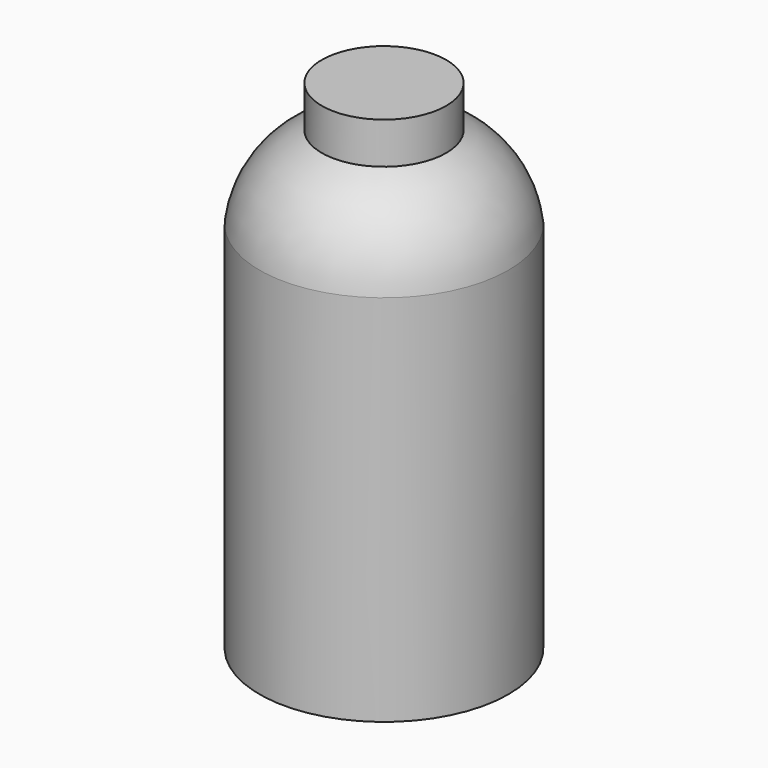
from build123d import *


with BuildPart() as f1:
    # F0 (on Front) → F1 (revolve)
    with BuildSketch(Plane.XZ):
        with BuildLine():
            Line((0, 304.8), (0, 0))
            Line((0, 0), (76.2, 0))
            Line((76.2, 0), (76.2, 228.6))
            ThreePointArc((76.2, 228.6), (64.005285, 259.141464), (38.1, 279.4))
            Line((38.1, 279.4), (38.1, 304.8))
            Line((38.1, 304.8), (0, 304.8))
        make_face()
    revolve(axis=Axis((0, 0, 152.4), (0, 0, 1)))


solid = f1.part
